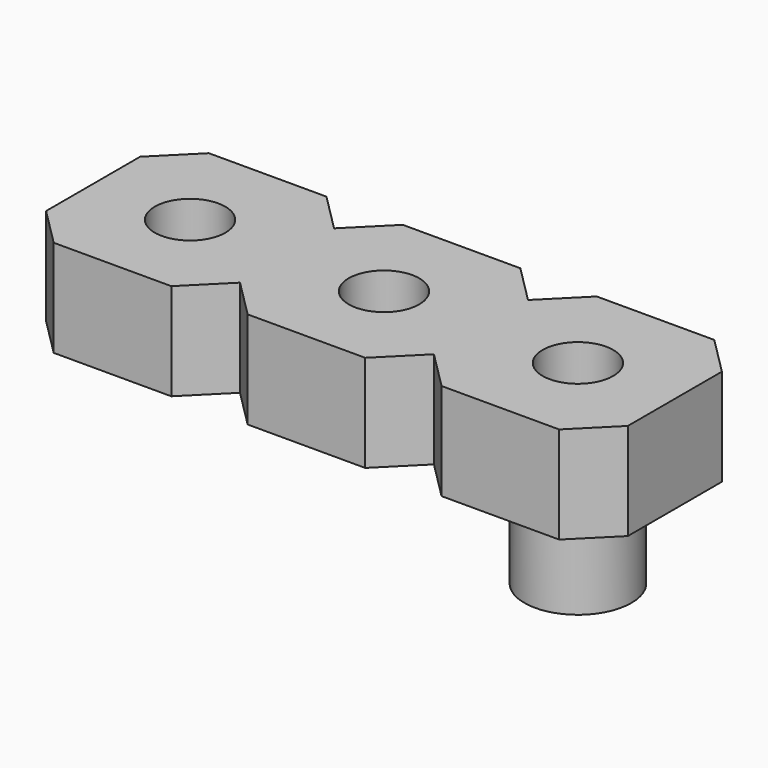
from build123d import *

# Parameters (mm, degrees)
F1_DEPTH = 6.35
F2_R     = 3.5
F2_R_2   = 2.3114
F3_DEPTH = 6.35


with BuildPart() as f1:
    # F0 (on Top) → F1 (new body)
    with BuildSketch(Plane.XY):
        with BuildLine():
            Line((-10.3886, 0.556152), (-6.35, 0.556152))
            Line((-6.35, 0.556152), (-6.35, 4.406152))
            Line((-6.35, 4.406152), (-8.85, 6.906152))
            Line((-8.85, 6.906152), (-16.55, 6.906152))
            Line((-16.55, 6.906152), (-19.05, 4.406152))
            Line((-19.05, 4.406152), (-19.05, 0.556152))
            Line((-19.05, 0.556152), (-15.0114, 0.556152))
            ThreePointArc((-15.0114, 0.556152), (-12.7, 2.867552), (-10.3886, 0.556152))
        make_face()
        with BuildLine():
            Line((-8.85, -5.793848), (-6.35, -3.293848))
            Line((-6.35, -3.293848), (-6.35, 0.556152))
            Line((-6.35, 0.556152), (-10.3886, 0.556152))
            ThreePointArc((-10.3886, 0.556152), (-12.7, -1.755248), (-15.0114, 0.556152))
            Line((-15.0114, 0.556152), (-19.05, 0.556152))
            Line((-19.05, 0.556152), (-19.05, -3.293848))
            Line((-19.05, -3.293848), (-16.55, -5.793848))
            Line((-16.55, -5.793848), (-8.85, -5.793848))
        make_face()
        with BuildLine():
            Line((3.85, -5.793848), (6.35, -3.293848))
            Line((6.35, -3.293848), (6.35, 0.556152))
            Line((6.35, 0.556152), (2.3114, 0.556152))
            ThreePointArc((2.3114, 0.556152), (0, -1.755248), (-2.3114, 0.556152))
            Line((-2.3114, 0.556152), (-6.35, 0.556152))
            Line((-6.35, 0.556152), (-6.35, -3.293848))
            Line((-6.35, -3.293848), (-3.85, -5.793848))
            Line((-3.85, -5.793848), (3.85, -5.793848))
        make_face()
        with BuildLine():
            Line((2.3114, 0.556152), (6.35, 0.556152))
            Line((6.35, 0.556152), (6.35, 4.406152))
            Line((6.35, 4.406152), (3.85, 6.906152))
            Line((3.85, 6.906152), (-3.85, 6.906152))
            Line((-3.85, 6.906152), (-6.35, 4.406152))
            Line((-6.35, 4.406152), (-6.35, 0.556152))
            Line((-6.35, 0.556152), (-2.3114, 0.556152))
            ThreePointArc((-2.3114, 0.556152), (0, 2.867552), (2.3114, 0.556152))
        make_face()
        with BuildLine():
            Line((15.0114, 0.556152), (19.05, 0.556152))
            Line((19.05, 0.556152), (19.05, 4.406152))
            Line((19.05, 4.406152), (16.55, 6.906152))
            Line((16.55, 6.906152), (8.85, 6.906152))
            Line((8.85, 6.906152), (6.35, 4.406152))
            Line((6.35, 4.406152), (6.35, 0.556152))
            Line((6.35, 0.556152), (10.3886, 0.556152))
            ThreePointArc((10.3886, 0.556152), (12.7, 2.867552), (15.0114, 0.556152))
        make_face()
        with BuildLine():
            Line((8.85, -5.793848), (16.55, -5.793848))
            Line((16.55, -5.793848), (19.05, -3.293848))
            Line((19.05, -3.293848), (19.05, 0.556152))
            Line((19.05, 0.556152), (15.0114, 0.556152))
            ThreePointArc((15.0114, 0.556152), (12.7, -1.755248), (10.3886, 0.556152))
            Line((10.3886, 0.556152), (6.35, 0.556152))
            Line((6.35, 0.556152), (6.35, -3.293848))
            Line((6.35, -3.293848), (8.85, -5.793848))
        make_face()
    extrude(amount=F1_DEPTH)


with BuildPart() as f3:
    # F2 (on face) → F3 (new body)
    with BuildSketch(Plane(origin=(0, 0, 0), x_dir=(1, 0, 0), z_dir=(0, 0, -1))):
        with Locations((12.7, -0.556152)):
            Circle(F2_R)
        with Locations((12.7, -0.556152)):
            Circle(F2_R_2, mode=Mode.SUBTRACT)
    extrude(amount=F3_DEPTH)


solid = Compound([f1.part, f3.part])
